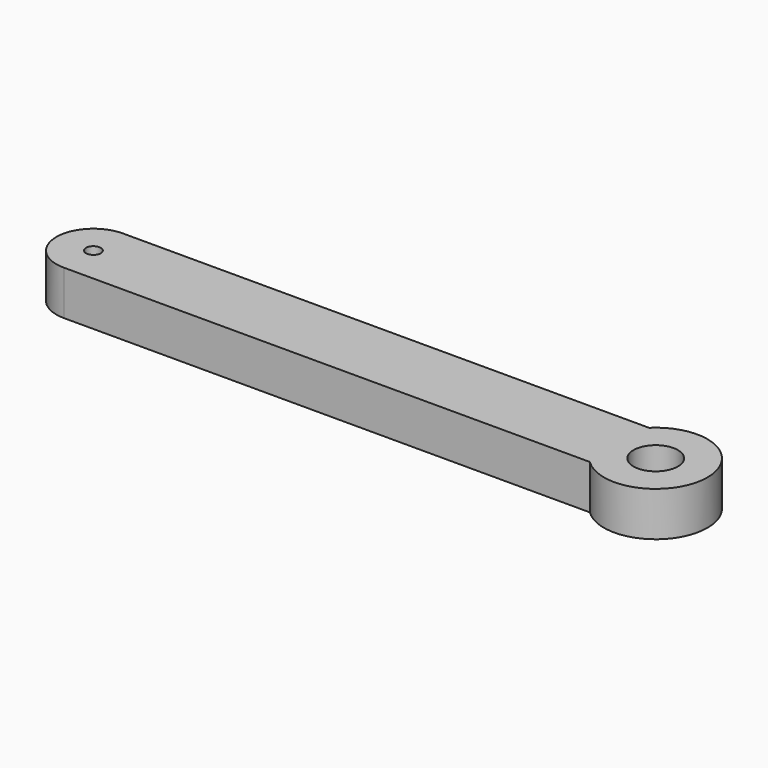
from build123d import *

# Parameters (mm, degrees)
F0_R     = 0.5
F0_R_2   = 1.5
F1_DEPTH = 3


with BuildPart() as f1:
    # F0 (on Top) → F1 (new body)
    with BuildSketch(Plane.XY):
        with BuildLine():
            ThreePointArc((25.712196, -2.5), (31.661686, 0), (25.712196, 2.5))
            Line((25.712196, 2.5), (-9.838314, 2.5))
            ThreePointArc((-9.838314, 2.5), (-12.338314, 0), (-9.838314, -2.5))
            Line((-9.838314, -2.5), (25.712196, -2.5))
        make_face()
        with Locations((-9.838314, 0)):
            Circle(F0_R, mode=Mode.SUBTRACT)
        with Locations((28.161686, 0)):
            Circle(F0_R_2, mode=Mode.SUBTRACT)
    extrude(amount=F1_DEPTH)


solid = f1.part
